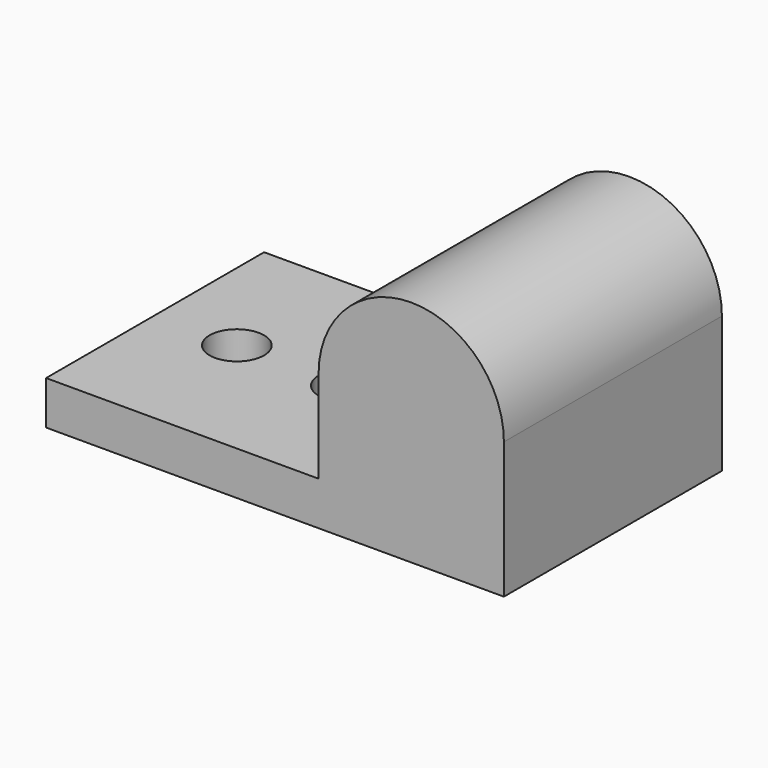
from build123d import *

# Parameters (mm, degrees)
F1_DEPTH = 25
F3_DEPTH = 25
F4_R     = 4
F5_DEPTH = 5


with BuildPart() as f1:
    # F0 (on Front) → F1 (new body)
    with BuildSketch(Plane.XZ):
        Polygon((0, 4), (0, 0), (42, 0), (42, 4), (33.5, 4), (25, 4), align=None)
        with BuildLine():
            Line((25, 12.5), (25, 4))
            Line((25, 4), (33.5, 4))
            ThreePointArc((33.5, 4), (27.4895923599, 6.4895923599), (25, 12.5))
        make_face()
        with BuildLine():
            ThreePointArc((25, 12.5), (27.4895923599, 6.4895923599), (33.5, 4))
            ThreePointArc((33.5, 4), (39.5104076401, 6.4895923599), (42, 12.5))
            ThreePointArc((42, 12.5), (33.5, 21), (25, 12.5))
        make_face()
        with BuildLine():
            ThreePointArc((37.5, 12.5), (33.5, 8.5), (29.5, 12.5))
            ThreePointArc((29.5, 12.5), (33.5, 16.5), (37.5, 12.5))
        make_face(mode=Mode.SUBTRACT)
        with BuildLine():
            Line((33.5, 4), (42, 4))
            Line((42, 4), (42, 12.5))
            ThreePointArc((42, 12.5), (39.5104076401, 6.4895923599), (33.5, 4))
        make_face()
    extrude(amount=F1_DEPTH)

    # F2 (on face) → F3 (cut)
    with BuildSketch(Plane.XY.offset(4)):
        with BuildLine():
            ThreePointArc((5, -12.5), (7.5, -15), (10, -12.5))
            Line((10, -12.5), (5, -12.5))
        make_face()
        with BuildLine():
            Line((5, -12.5), (10, -12.5))
            ThreePointArc((10, -12.5), (7.5, -10), (5, -12.5))
        make_face()
        with BuildLine():
            ThreePointArc((15, -12.5), (17.5, -15), (20, -12.5))
            Line((20, -12.5), (15, -12.5))
        make_face()
        with BuildLine():
            Line((15, -12.5), (20, -12.5))
            ThreePointArc((20, -12.5), (17.5, -10), (15, -12.5))
        make_face()
    extrude(amount=-F3_DEPTH, mode=Mode.SUBTRACT)

    # F4 (on face) → F5 (join)
    with BuildSketch(Plane.XZ.offset(25)):
        with Locations((33.5, 12.5)):
            Circle(F4_R)
    extrude(amount=-F5_DEPTH)


solid = f1.part
